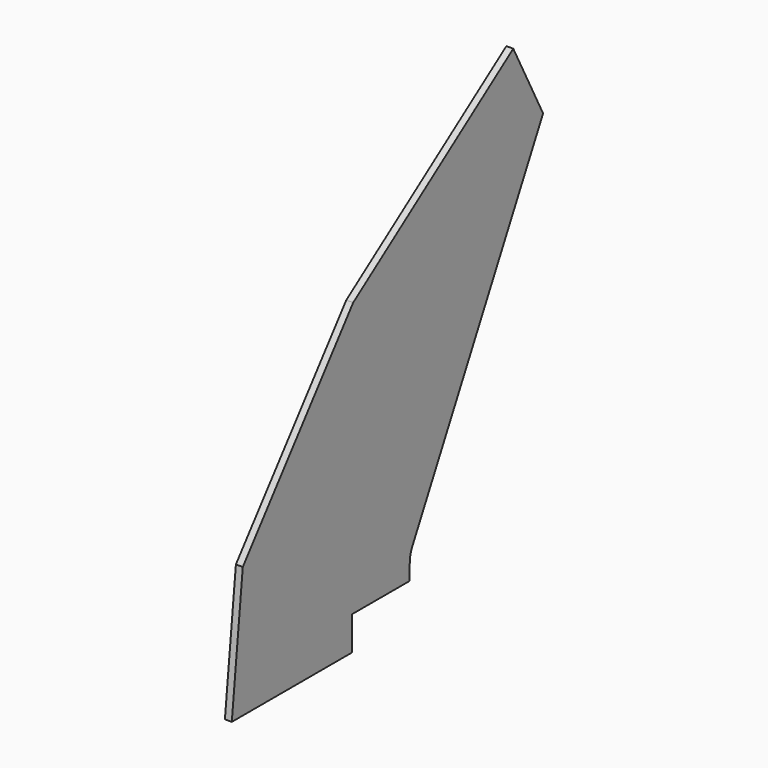
from build123d import *

# Parameters (mm, degrees)
F1_DEPTH = 2
F2_R     = 8


with BuildPart() as f1:
    # F0 (on Right) → F1 (new body)
    with BuildSketch(Plane.YZ):
        Polygon((-130.984189, 37.94101), (-134.97195, 0), (-91.39695, 0), (-91.39695, 9.778), (-70.61595, 9.778), (-70.378529, 16.576856), (-22.121002, 109.484527), (-32.937543, 130.413668), (-90.969887, 89.156981), align=None)
    extrude(amount=F1_DEPTH)

    # F2
    f2_edges = [f1.edges().sort_by_distance(p)[0] for p in [
        (1, -70.378529, 16.576856),
    ]]
    fillet(f2_edges, radius=F2_R)


solid = f1.part
